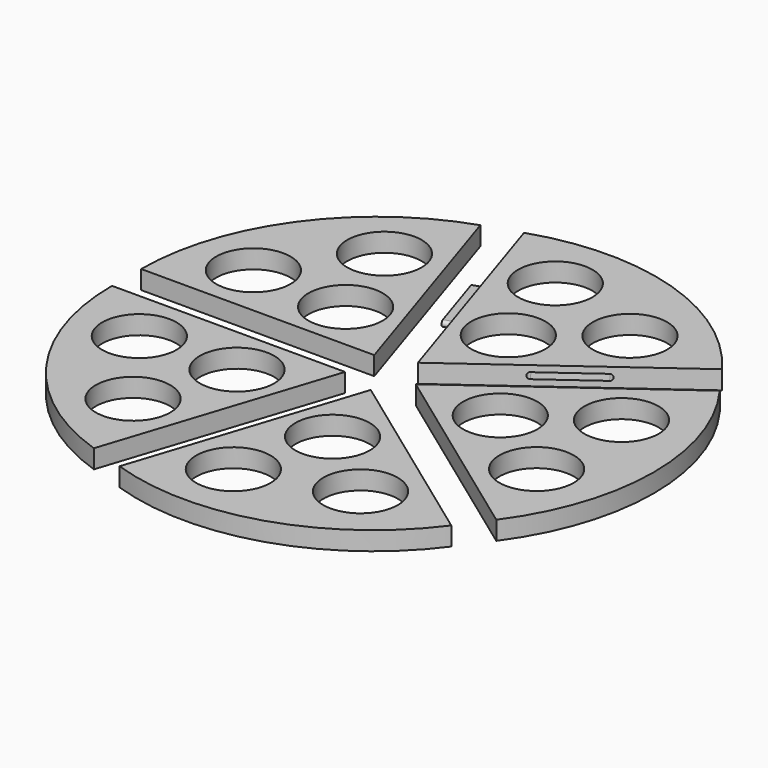
from build123d import *

# Parameters (mm, degrees)
F0_R      = 30
F1_DEPTH  = 15
F2_DEPTH  = 15
F3_DEPTH  = 15
F4_DEPTH  = 15
F5_DEPTH  = 15
F12_DEPTH = 10
F14_DEPTH = 9.5


with BuildPart() as f1:
    # F0 (on Top) → F1 (new body)
    with BuildSketch(Plane.XY):
        with BuildLine():
            Line((0, 0), (155.0346032219, 112.6392325532))
            ThreePointArc((155.0346032219, 112.6392325532), (59.254028137, 181.1757835966), (-58.5169918512, 180.0967824656))
            Line((-58.5169918512, 180.0967824656), (0, 0))
        make_face()
        with Locations((0, 138.4675204754)):
            Circle(F0_R, mode=Mode.SUBTRACT)
        with Locations((21.0539835717, 64.7974986306)):
            Circle(F0_R, mode=Mode.SUBTRACT)
        with Locations((81.3891664569, 112.0225772335)):
            Circle(F0_R, mode=Mode.SUBTRACT)
    extrude(amount=F1_DEPTH)


with BuildPart() as f2:
    # F0 (on Top) → F2 (new body)
    with BuildSketch(Plane.XY):
        with BuildLine():
            Line((0, 0), (-58.5169918512, 180.0967824656))
            ThreePointArc((-58.5169918512, 180.0967824656), (-152.2533635287, 110.8993011996), (-187.9765182361, 0))
            Line((-187.9765182361, 0), (0, 0))
        make_face()
        with Locations((-131.6904376433, 42.7888169959)):
            Circle(F0_R, mode=Mode.SUBTRACT)
        with Locations((-55.1200445893, 40.0470565397)):
            Circle(F0_R, mode=Mode.SUBTRACT)
        with Locations((-81.3891664569, 112.0225772335)):
            Circle(F0_R, mode=Mode.SUBTRACT)
    extrude(amount=F2_DEPTH)


with BuildPart() as f3:
    # F0 (on Top) → F3 (new body)
    with BuildSketch(Plane.XY):
        with BuildLine():
            Line((-58.5169918512, -180.0967824656), (0, 0))
            Line((0, 0), (-187.9765182361, 0))
            ThreePointArc((-187.9765182361, 0), (-152.2533635287, -110.8993011996), (-58.5169918512, -180.0967824656))
        make_face()
        with Locations((-81.3891664569, -112.0225772335)):
            Circle(F0_R, mode=Mode.SUBTRACT)
        with Locations((-131.6904376433, -42.7888169959)):
            Circle(F0_R, mode=Mode.SUBTRACT)
        with Locations((-55.1200445893, -40.0470565397)):
            Circle(F0_R, mode=Mode.SUBTRACT)
    extrude(amount=F3_DEPTH)


with BuildPart() as f4:
    # F0 (on Top) → F4 (new body)
    with BuildSketch(Plane.XY):
        with BuildLine():
            ThreePointArc((-58.5169918512, -180.0967824656), (59.254028137, -181.1757835966), (155.0346032219, -112.6392325531))
            Line((155.0346032219, -112.6392325532), (0, 0))
            Line((0, 0), (-58.5169918512, -180.0967824656))
        make_face()
        with Locations((0, -138.4675204754)):
            Circle(F0_R, mode=Mode.SUBTRACT)
        with Locations((81.3891664569, -112.0225772335)):
            Circle(F0_R, mode=Mode.SUBTRACT)
        with Locations((21.0539835717, -64.7974986306)):
            Circle(F0_R, mode=Mode.SUBTRACT)
    extrude(amount=F4_DEPTH)


with BuildPart() as f5:
    # F0 (on Top) → F5 (new body)
    with BuildSketch(Plane.XY):
        with BuildLine():
            ThreePointArc((155.0346032219, -112.6392325531), (182.5395656415, -59.2785244544), (192.0234817639, 0))
            ThreePointArc((192.0234817639, 0), (182.5395656415, 59.2785244544), (155.0346032219, 112.6392325532))
            Line((155.0346032219, 112.6392325532), (0, 0))
            Line((0, 0), (155.0346032219, -112.6392325532))
        make_face()
        with Locations((131.6904376433, -42.7888169959)):
            Circle(F0_R, mode=Mode.SUBTRACT)
        with Locations((68.1321220352, 0)):
            Circle(F0_R, mode=Mode.SUBTRACT)
        with Locations((131.6904376433, 42.7888169959)):
            Circle(F0_R, mode=Mode.SUBTRACT)
    extrude(amount=F5_DEPTH)


with BuildPart() as f1_1:
    # F6: moved
    add(f1.part.moved(Location((7.7254248594, 23.7764129074, 0))))

    # F11 (on face) → F12 (cut)
    with BuildSketch(Plane(origin=(-8.6372875703, 11.8882064537, 0), x_dir=(0.8090169944, 0.5877852523, 0), z_dir=(0.5877852523, -0.8090169944, 0))):
        with BuildLine():
            ThreePointArc((91.0420790829, 10), (88.5420790829, 7.5), (91.0420790829, 5))
            Line((91.0420790829, 5), (141.0420790829, 5))
            ThreePointArc((141.0420790829, 5), (143.5420790829, 7.5), (141.0420790829, 10))
            Line((141.0420790829, 10), (91.0420790829, 10))
        make_face()
    extrude(amount=-F12_DEPTH, mode=Mode.SUBTRACT)

    # F13 (on face) → F14 (join)
    with BuildSketch(Plane(origin=(13.9754248594, 4.5408908, 0), x_dir=(0.3090169944, -0.9510565163, 0), z_dir=(-0.9510565163, -0.3090169944, 0))):
        with BuildLine():
            ThreePointArc((-139.9079065941, 9.875), (-142.2829065941, 7.5), (-139.9079065941, 5.125))
            Line((-139.9079065941, 5.125), (-89.9079065941, 5.125))
            ThreePointArc((-89.9079065941, 5.125), (-87.5329065941, 7.5), (-89.9079065941, 9.875))
            Line((-89.9079065941, 9.875), (-139.9079065941, 9.875))
        make_face()
    extrude(amount=F14_DEPTH)


with BuildPart() as f2_1:
    # F7: moved
    add(f2.part.moved(Location((-20.2254248594, 14.6946313073, 0))))


with BuildPart() as f3_1:
    # F8: moved
    add(f3.part.moved(Location((-20.2254248594, -14.6946313073, 0))))


with BuildPart() as f4_1:
    # F9: moved
    add(f4.part.moved(Location((7.7254248594, -23.7764129074, 0))))


with BuildPart() as f5_1:
    # F10: moved
    add(f5.part.moved(Location((25, 0, 0))))


solid = Compound([f1_1.part, f2_1.part, f3_1.part, f4_1.part, f5_1.part])
